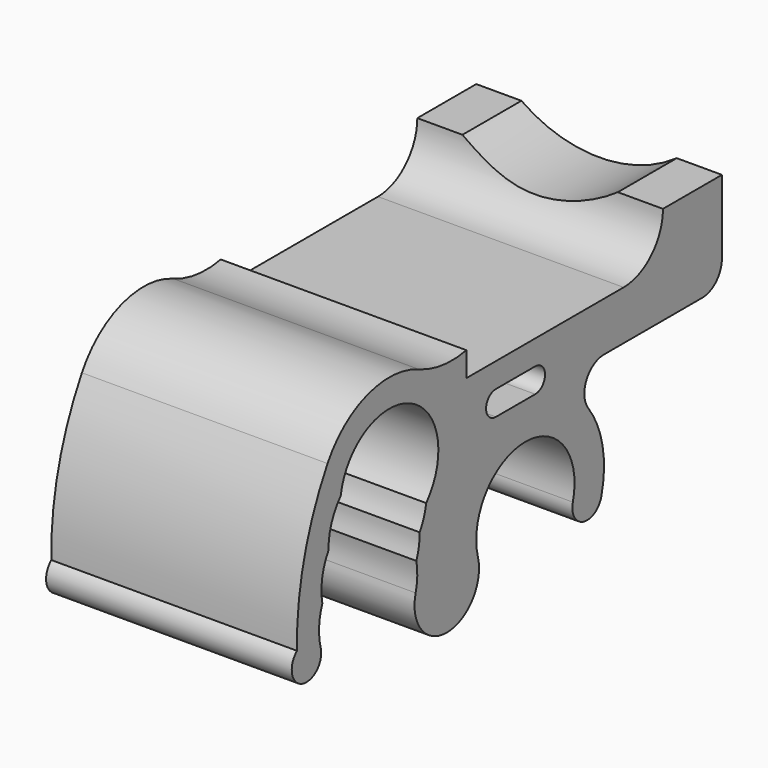
from build123d import *

# Parameters (mm, degrees)
F1_DEPTH = 10
F3_DEPTH = 20
F5_DEPTH = 7.5358984849


with BuildPart() as f1:
    # F0 (on Right) → F1 (new body, symmetric)
    with BuildSketch(Plane.YZ):
        with BuildLine():
            ThreePointArc((-20.8296291314, -1.2940952255), (-20.9926964007, 0.2701530127), (-20.6617935804, 1.8076727064))
            ThreePointArc((-20.6617935804, 1.8076727064), (-20.6809628133, 3.646611731), (-20.0339954379, 5.3680928987))
            ThreePointArc((-20.0339954379, 5.3680928987), (-19.7335450365, 7.1824230098), (-18.7974744816, 8.7654063047))
            ThreePointArc((-18.7974744816, 8.7654063047), (-11.7433151518, 12.5315389352), (-10.0940139115, 4.7069159885))
            ThreePointArc((-10.0940139115, 4.7069159885), (-10.3366188286, 3.7622215766), (-10.7580105429, 2.8826002371))
            ThreePointArc((-10.7580105429, 2.8826002371), (-10.8328852831, 1.9101299543), (-11.0951304678, 0.9706981363))
            ThreePointArc((-11.0951304678, 0.9706981363), (-11.0027569299, -0.1660171642), (-11.1703708686, -1.2940952255))
            ThreePointArc((-11.1703708686, -1.2940952255), (-8, -5.4258029827), (-4.8296291314, -1.2940952255))
            ThreePointArc((-4.8296291314, -1.2940952255), (0, 5), (4.8296291314, -1.2940952255))
            ThreePointArc((4.8296291314, -1.2940952255), (5.8902893032, -3.1312125326), (7.7274066103, -2.0705523608))
            ThreePointArc((7.7274066103, -2.0705523608), (7.8547454968, 1.517555001), (6.4, 4.8))
            ThreePointArc((6.4, 4.8), (6.211145618, 6.894427191), (8, 8))
            Line((8, 8), (18, 8))
            ThreePointArc((18, 8), (19.4142135624, 8.5857864376), (20, 10))
            Line((20, 10), (20, 16))
            Line((20, 16), (14, 16))
            ThreePointArc((14, 16), (12.8284271247, 13.1715728753), (10, 12))
            Line((10, 12), (-6, 12))
            Line((-6, 12), (-6, 14))
            ThreePointArc((-6, 14), (-8.4616553345, 13.9180532248), (-10.8315712253, 14.5888444966))
            ThreePointArc((-10.8315712253, 14.5888444966), (-16.0570828985, 14.9079319058), (-20.135090638, 11.625))
            ThreePointArc((-20.135090638, 11.625), (-22.5254325043, 5.7591136901), (-23.2438614431, -0.5342332969))
            ThreePointArc((-23.2438614431, -0.5342332969), (-22.7288527683, -3.1131272319), (-20.8296291314, -1.2940952255))
        make_face()
    extrude(amount=F1_DEPTH, both=True)

    # F2 (on face) → F3 (cut, through all)
    with BuildSketch(Plane.YZ.offset(10)):
        with BuildLine():
            Line((1, 10), (-3, 10))
            ThreePointArc((-3, 10), (-4, 9), (-3, 8))
            Line((-3, 8), (1, 8))
            ThreePointArc((1, 8), (2, 9), (1, 10))
        make_face()
    extrude(amount=-F3_DEPTH, mode=Mode.SUBTRACT)

    # F4 (on face) → F5 (cut, up to face)
    with BuildSketch(Plane(origin=(0, 20, 0), x_dir=(-1, 0, 0), z_dir=(0, 1, 0))):
        with BuildLine():
            Line((6.3245553203, 16), (-6.3245553203, 16))
            ThreePointArc((-6.3245553203, 16), (0, 14), (6.3245553203, 16))
        make_face()
    extrude(amount=-F5_DEPTH, mode=Mode.SUBTRACT)


solid = f1.part
